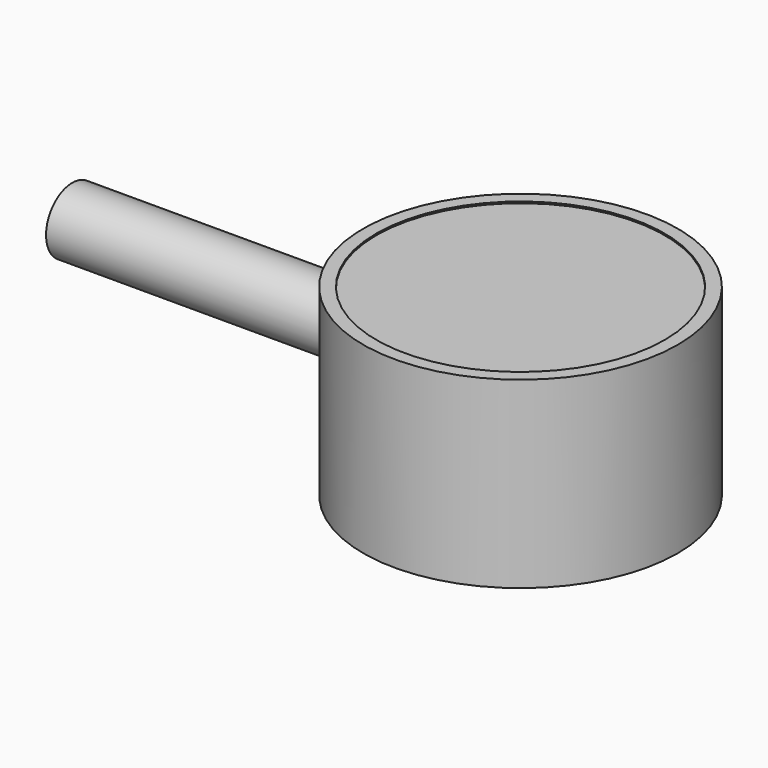
from build123d import *

# Parameters (mm, degrees)
F0_R       = 15.24
F1_DEPTH   = 17.78
F2_R       = 14.351
F3_DEPTH   = 17.526
F5_R       = 3.175
F6_DEPTH   = 25.1968
F6_FACE_R  = 3.175
F7_DEPTH   = 5.842
F8_R       = 2.786893
F9_DEPTH   = 33.5026
F12_R      = 13.97
F13_DEPTH  = 0.4572
F13_FACE_R = 13.97
F14_DEPTH  = 0.6096


with BuildPart() as f1:
    # F0 (on Top) → F1 (new body)
    with BuildSketch(Plane.XY):
        Circle(F0_R)
    extrude(amount=F1_DEPTH)

    # F2 (on face) → F3 (cut)
    with BuildSketch(Plane(origin=(0, 0, 0), x_dir=(1, 0, 0), z_dir=(0, 0, -1))):
        Circle(F2_R)
    extrude(amount=-F3_DEPTH, mode=Mode.SUBTRACT)

    # F5 (on offset) → F6 (join)
    with BuildSketch(Plane.YZ.offset(-37.592)):
        with Locations((0, 9.3463)):
            Circle(F5_R)
    extrude(amount=F6_DEPTH)

    # F6_face (on face) → F7 (join)
    with BuildSketch(Plane(origin=(-37.592, 0, 9.3463), x_dir=(0, 1, 0), z_dir=(-1, 0, 0))):
        Circle(F6_FACE_R)
    extrude(amount=F7_DEPTH)

    # F8 (on face) → F9 (cut)
    with BuildSketch(Plane(origin=(-43.434, 0, 0), x_dir=(0, -1, 0), z_dir=(-1, 0, 0))):
        with Locations((0, 9.3463)):
            Circle(F8_R)
    extrude(amount=-F9_DEPTH, mode=Mode.SUBTRACT)

    # F12 (on face) → F13 (join)
    with BuildSketch(Plane.XY.offset(17.78)):
        Circle(F12_R)
    extrude(amount=F13_DEPTH)

    # F13_face (on face) → F14 (cut)
    with BuildSketch(Plane.XY.offset(18.2372)):
        Circle(F13_FACE_R)
    extrude(amount=-F14_DEPTH, mode=Mode.SUBTRACT)


solid = f1.part
